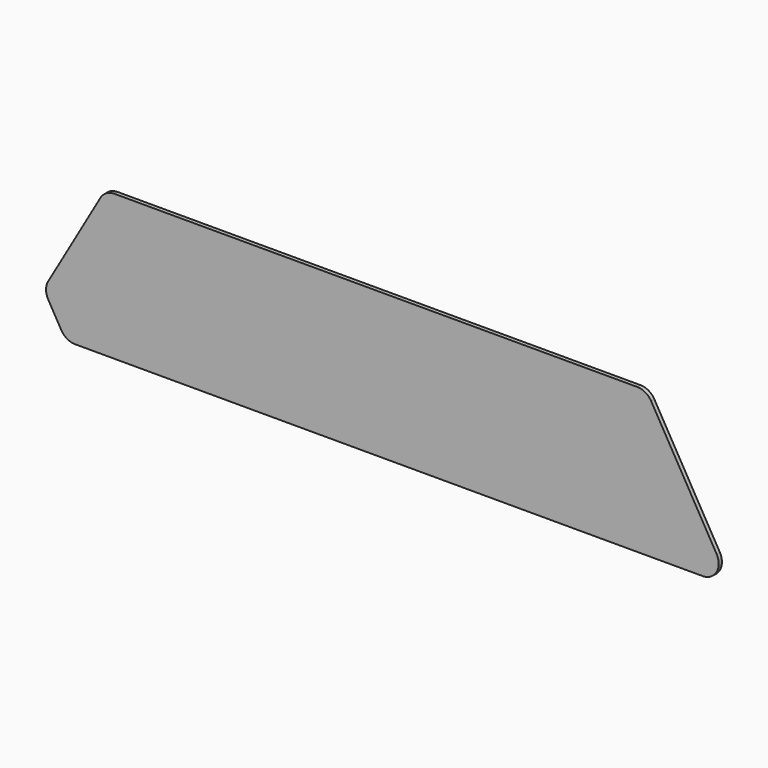
from build123d import *

# Parameters (mm, degrees)
F0_R     = 9.4
F1_DEPTH = 3
F2_DEPTH = 3


with BuildPart() as f1:
    # F0 (on Front) → F1 (new body)
    with BuildSketch(Plane.XZ):
        with BuildLine():
            Line((372.4, 12), (-19.6, 12))
            ThreePointArc((-19.6, 12), (-20.221, 11.983921), (-20.840337, 11.935726))
            ThreePointArc((-20.840337, 11.935726), (-26.129763, 10.06788), (-29.992305, 6))
            Line((-29.992305, 6), (-69.192305, -61.896392))
            ThreePointArc((-69.192305, -61.896392), (-70.8, -67.896756), (-69.19194, -73.897023))
            Line((-69.19194, -73.897023), (-59.390565, -90.871121))
            ThreePointArc((-59.390565, -90.871121), (-54.998904, -95.262633), (-49, -96.87049))
            Line((-49, -96.87049), (42.071797, -96.87049))
            Line((42.071797, -96.87049), (49, -96.87049))
            Line((49, -96.87049), (421.4, -96.87049))
            ThreePointArc((421.4, -96.87049), (431.792305, -90.87049), (431.792305, -78.87049))
            Line((431.792305, -78.87049), (382.792305, 6))
            ThreePointArc((382.792305, 6), (378.4, 10.392305), (372.4, 12))
        make_face()
        with Locations((-49, -84.87049)):
            Circle(F0_R, mode=Mode.SUBTRACT)
        with Locations((-29.4, -84.87049)):
            Circle(F0_R, mode=Mode.SUBTRACT)
        with Locations((-9.8, -84.87049)):
            Circle(F0_R, mode=Mode.SUBTRACT)
        with Locations((9.8, -84.87049)):
            Circle(F0_R, mode=Mode.SUBTRACT)
        with Locations((29.4, -84.87049)):
            Circle(F0_R, mode=Mode.SUBTRACT)
        with Locations((49, -84.87049)):
            Circle(F0_R, mode=Mode.SUBTRACT)
        with Locations((68.6, -84.87049)):
            Circle(F0_R, mode=Mode.SUBTRACT)
        with Locations((88.2, -84.87049)):
            Circle(F0_R, mode=Mode.SUBTRACT)
        with Locations((107.8, -84.87049)):
            Circle(F0_R, mode=Mode.SUBTRACT)
        with Locations((127.4, -84.87049)):
            Circle(F0_R, mode=Mode.SUBTRACT)
        with Locations((147, -84.87049)):
            Circle(F0_R, mode=Mode.SUBTRACT)
        with Locations((166.6, -84.87049)):
            Circle(F0_R, mode=Mode.SUBTRACT)
        with Locations((-58.8, -67.896392)):
            Circle(F0_R, mode=Mode.SUBTRACT)
        with Locations((-39.2, -67.896392)):
            Circle(F0_R, mode=Mode.SUBTRACT)
        with Locations((-19.6, -67.896392)):
            Circle(F0_R, mode=Mode.SUBTRACT)
        with Locations((0, -67.896392)):
            Circle(F0_R, mode=Mode.SUBTRACT)
        with Locations((19.6, -67.896392)):
            Circle(F0_R, mode=Mode.SUBTRACT)
        with Locations((39.2, -67.896392)):
            Circle(F0_R, mode=Mode.SUBTRACT)
        with Locations((-49, -50.922294)):
            Circle(F0_R, mode=Mode.SUBTRACT)
        with Locations((-29.4, -50.922294)):
            Circle(F0_R, mode=Mode.SUBTRACT)
        with Locations((-9.8, -50.922294)):
            Circle(F0_R, mode=Mode.SUBTRACT)
        with Locations((9.8, -50.922294)):
            Circle(F0_R, mode=Mode.SUBTRACT)
        with Locations((29.4, -50.922294)):
            Circle(F0_R, mode=Mode.SUBTRACT)
        with Locations((49, -50.922294)):
            Circle(F0_R, mode=Mode.SUBTRACT)
        with Locations((58.8, -67.896392)):
            Circle(F0_R, mode=Mode.SUBTRACT)
        with Locations((78.4, -67.896392)):
            Circle(F0_R, mode=Mode.SUBTRACT)
        with Locations((98, -67.896392)):
            Circle(F0_R, mode=Mode.SUBTRACT)
        with Locations((117.6, -67.896392)):
            Circle(F0_R, mode=Mode.SUBTRACT)
        with Locations((137.2, -67.896392)):
            Circle(F0_R, mode=Mode.SUBTRACT)
        with Locations((156.8, -67.896392)):
            Circle(F0_R, mode=Mode.SUBTRACT)
        with Locations((176.4, -67.896392)):
            Circle(F0_R, mode=Mode.SUBTRACT)
        with Locations((68.6, -50.922294)):
            Circle(F0_R, mode=Mode.SUBTRACT)
        with Locations((88.2, -50.922294)):
            Circle(F0_R, mode=Mode.SUBTRACT)
        with Locations((107.8, -50.922294)):
            Circle(F0_R, mode=Mode.SUBTRACT)
        with Locations((127.4, -50.922294)):
            Circle(F0_R, mode=Mode.SUBTRACT)
        with Locations((147, -50.922294)):
            Circle(F0_R, mode=Mode.SUBTRACT)
        with Locations((166.6, -50.922294)):
            Circle(F0_R, mode=Mode.SUBTRACT)
        with Locations((186.2, -84.87049)):
            Circle(F0_R, mode=Mode.SUBTRACT)
        with Locations((205.8, -84.87049)):
            Circle(F0_R, mode=Mode.SUBTRACT)
        with Locations((225.4, -84.87049)):
            Circle(F0_R, mode=Mode.SUBTRACT)
        with Locations((245, -84.87049)):
            Circle(F0_R, mode=Mode.SUBTRACT)
        with Locations((264.6, -84.87049)):
            Circle(F0_R, mode=Mode.SUBTRACT)
        with Locations((284.2, -84.87049)):
            Circle(F0_R, mode=Mode.SUBTRACT)
        with Locations((303.8, -84.87049)):
            Circle(F0_R, mode=Mode.SUBTRACT)
        with Locations((323.4, -84.87049)):
            Circle(F0_R, mode=Mode.SUBTRACT)
        with Locations((343, -84.87049)):
            Circle(F0_R, mode=Mode.SUBTRACT)
        with Locations((362.6, -84.87049)):
            Circle(F0_R, mode=Mode.SUBTRACT)
        with Locations((382.2, -84.87049)):
            Circle(F0_R, mode=Mode.SUBTRACT)
        with Locations((401.8, -84.87049)):
            Circle(F0_R, mode=Mode.SUBTRACT)
        with Locations((421.4, -84.87049)):
            Circle(F0_R, mode=Mode.SUBTRACT)
        with Locations((196, -67.896392)):
            Circle(F0_R, mode=Mode.SUBTRACT)
        with Locations((215.6, -67.896392)):
            Circle(F0_R, mode=Mode.SUBTRACT)
        with Locations((235.2, -67.896392)):
            Circle(F0_R, mode=Mode.SUBTRACT)
        with Locations((254.8, -67.896392)):
            Circle(F0_R, mode=Mode.SUBTRACT)
        with Locations((274.4, -67.896392)):
            Circle(F0_R, mode=Mode.SUBTRACT)
        with Locations((294, -67.896392)):
            Circle(F0_R, mode=Mode.SUBTRACT)
        with Locations((186.2, -50.922294)):
            Circle(F0_R, mode=Mode.SUBTRACT)
        with Locations((205.8, -50.922294)):
            Circle(F0_R, mode=Mode.SUBTRACT)
        with Locations((225.4, -50.922294)):
            Circle(F0_R, mode=Mode.SUBTRACT)
        with Locations((245, -50.922294)):
            Circle(F0_R, mode=Mode.SUBTRACT)
        with Locations((264.6, -50.922294)):
            Circle(F0_R, mode=Mode.SUBTRACT)
        with Locations((284.2, -50.922294)):
            Circle(F0_R, mode=Mode.SUBTRACT)
        with Locations((303.8, -50.922294)):
            Circle(F0_R, mode=Mode.SUBTRACT)
        with Locations((313.6, -67.896392)):
            Circle(F0_R, mode=Mode.SUBTRACT)
        with Locations((333.2, -67.896392)):
            Circle(F0_R, mode=Mode.SUBTRACT)
        with Locations((352.8, -67.896392)):
            Circle(F0_R, mode=Mode.SUBTRACT)
        with Locations((372.4, -67.896392)):
            Circle(F0_R, mode=Mode.SUBTRACT)
        with Locations((392, -67.896392)):
            Circle(F0_R, mode=Mode.SUBTRACT)
        with Locations((411.6, -67.896392)):
            Circle(F0_R, mode=Mode.SUBTRACT)
        with Locations((323.4, -50.922294)):
            Circle(F0_R, mode=Mode.SUBTRACT)
        with Locations((343, -50.922294)):
            Circle(F0_R, mode=Mode.SUBTRACT)
        with Locations((362.6, -50.922294)):
            Circle(F0_R, mode=Mode.SUBTRACT)
        with Locations((382.2, -50.922294)):
            Circle(F0_R, mode=Mode.SUBTRACT)
        with Locations((401.8, -50.922294)):
            Circle(F0_R, mode=Mode.SUBTRACT)
        with Locations((-39.2, -33.948196)):
            Circle(F0_R, mode=Mode.SUBTRACT)
        with Locations((-19.6, -33.948196)):
            Circle(F0_R, mode=Mode.SUBTRACT)
        with Locations((0, -33.948196)):
            Circle(F0_R, mode=Mode.SUBTRACT)
        with Locations((19.6, -33.948196)):
            Circle(F0_R, mode=Mode.SUBTRACT)
        with Locations((39.2, -33.948196)):
            Circle(F0_R, mode=Mode.SUBTRACT)
        with Locations((-29.4, -16.974098)):
            Circle(F0_R, mode=Mode.SUBTRACT)
        with Locations((-9.8, -16.974098)):
            Circle(F0_R, mode=Mode.SUBTRACT)
        with Locations((9.8, -16.974098)):
            Circle(F0_R, mode=Mode.SUBTRACT)
        with Locations((29.4, -16.974098)):
            Circle(F0_R, mode=Mode.SUBTRACT)
        with Locations((49, -16.974098)):
            Circle(F0_R, mode=Mode.SUBTRACT)
        with Locations((58.8, -33.948196)):
            Circle(F0_R, mode=Mode.SUBTRACT)
        with Locations((78.4, -33.948196)):
            Circle(F0_R, mode=Mode.SUBTRACT)
        with Locations((98, -33.948196)):
            Circle(F0_R, mode=Mode.SUBTRACT)
        with Locations((117.6, -33.948196)):
            Circle(F0_R, mode=Mode.SUBTRACT)
        with Locations((137.2, -33.948196)):
            Circle(F0_R, mode=Mode.SUBTRACT)
        with Locations((156.8, -33.948196)):
            Circle(F0_R, mode=Mode.SUBTRACT)
        with Locations((176.4, -33.948196)):
            Circle(F0_R, mode=Mode.SUBTRACT)
        with Locations((68.6, -16.974098)):
            Circle(F0_R, mode=Mode.SUBTRACT)
        with Locations((88.2, -16.974098)):
            Circle(F0_R, mode=Mode.SUBTRACT)
        with Locations((107.8, -16.974098)):
            Circle(F0_R, mode=Mode.SUBTRACT)
        with Locations((127.4, -16.974098)):
            Circle(F0_R, mode=Mode.SUBTRACT)
        with Locations((147, -16.974098)):
            Circle(F0_R, mode=Mode.SUBTRACT)
        with Locations((166.6, -16.974098)):
            Circle(F0_R, mode=Mode.SUBTRACT)
        with Locations((-19.6, 0)):
            Circle(F0_R, mode=Mode.SUBTRACT)
        Circle(F0_R, mode=Mode.SUBTRACT)
        with Locations((19.6, 0)):
            Circle(F0_R, mode=Mode.SUBTRACT)
        with Locations((39.2, 0)):
            Circle(F0_R, mode=Mode.SUBTRACT)
        with Locations((58.8, 0)):
            Circle(F0_R, mode=Mode.SUBTRACT)
        with Locations((78.4, 0)):
            Circle(F0_R, mode=Mode.SUBTRACT)
        with Locations((98, 0)):
            Circle(F0_R, mode=Mode.SUBTRACT)
        with Locations((117.6, 0)):
            Circle(F0_R, mode=Mode.SUBTRACT)
        with Locations((137.2, 0)):
            Circle(F0_R, mode=Mode.SUBTRACT)
        with Locations((156.8, 0)):
            Circle(F0_R, mode=Mode.SUBTRACT)
        with Locations((176.4, 0)):
            Circle(F0_R, mode=Mode.SUBTRACT)
        with Locations((196, -33.948196)):
            Circle(F0_R, mode=Mode.SUBTRACT)
        with Locations((215.6, -33.948196)):
            Circle(F0_R, mode=Mode.SUBTRACT)
        with Locations((235.2, -33.948196)):
            Circle(F0_R, mode=Mode.SUBTRACT)
        with Locations((254.8, -33.948196)):
            Circle(F0_R, mode=Mode.SUBTRACT)
        with Locations((274.4, -33.948196)):
            Circle(F0_R, mode=Mode.SUBTRACT)
        with Locations((294, -33.948196)):
            Circle(F0_R, mode=Mode.SUBTRACT)
        with Locations((186.2, -16.974098)):
            Circle(F0_R, mode=Mode.SUBTRACT)
        with Locations((205.8, -16.974098)):
            Circle(F0_R, mode=Mode.SUBTRACT)
        with Locations((225.4, -16.974098)):
            Circle(F0_R, mode=Mode.SUBTRACT)
        with Locations((245, -16.974098)):
            Circle(F0_R, mode=Mode.SUBTRACT)
        with Locations((264.6, -16.974098)):
            Circle(F0_R, mode=Mode.SUBTRACT)
        with Locations((284.2, -16.974098)):
            Circle(F0_R, mode=Mode.SUBTRACT)
        with Locations((303.8, -16.974098)):
            Circle(F0_R, mode=Mode.SUBTRACT)
        with Locations((313.6, -33.948196)):
            Circle(F0_R, mode=Mode.SUBTRACT)
        with Locations((333.2, -33.948196)):
            Circle(F0_R, mode=Mode.SUBTRACT)
        with Locations((352.8, -33.948196)):
            Circle(F0_R, mode=Mode.SUBTRACT)
        with Locations((372.4, -33.948196)):
            Circle(F0_R, mode=Mode.SUBTRACT)
        with Locations((392, -33.948196)):
            Circle(F0_R, mode=Mode.SUBTRACT)
        with Locations((323.4, -16.974098)):
            Circle(F0_R, mode=Mode.SUBTRACT)
        with Locations((343, -16.974098)):
            Circle(F0_R, mode=Mode.SUBTRACT)
        with Locations((362.6, -16.974098)):
            Circle(F0_R, mode=Mode.SUBTRACT)
        with Locations((382.2, -16.974098)):
            Circle(F0_R, mode=Mode.SUBTRACT)
        with Locations((196, 0)):
            Circle(F0_R, mode=Mode.SUBTRACT)
        with Locations((215.6, 0)):
            Circle(F0_R, mode=Mode.SUBTRACT)
        with Locations((235.2, 0)):
            Circle(F0_R, mode=Mode.SUBTRACT)
        with Locations((254.8, 0)):
            Circle(F0_R, mode=Mode.SUBTRACT)
        with Locations((274.4, 0)):
            Circle(F0_R, mode=Mode.SUBTRACT)
        with Locations((294, 0)):
            Circle(F0_R, mode=Mode.SUBTRACT)
        with Locations((313.6, 0)):
            Circle(F0_R, mode=Mode.SUBTRACT)
        with Locations((333.2, 0)):
            Circle(F0_R, mode=Mode.SUBTRACT)
        with Locations((352.8, 0)):
            Circle(F0_R, mode=Mode.SUBTRACT)
        with Locations((372.4, 0)):
            Circle(F0_R, mode=Mode.SUBTRACT)
    extrude(amount=F1_DEPTH)


with BuildPart() as f2:
    # F0 (on Front) → F2 (new body)
    with BuildSketch(Plane.XZ):
        with BuildLine():
            Line((372.4, 12), (-19.6, 12))
            ThreePointArc((-19.6, 12), (-20.221, 11.983921), (-20.840337, 11.935726))
            ThreePointArc((-20.840337, 11.935726), (-26.129763, 10.06788), (-29.992305, 6))
            Line((-29.992305, 6), (-69.192305, -61.896392))
            ThreePointArc((-69.192305, -61.896392), (-70.8, -67.896756), (-69.19194, -73.897023))
            Line((-69.19194, -73.897023), (-59.390565, -90.871121))
            ThreePointArc((-59.390565, -90.871121), (-54.998904, -95.262633), (-49, -96.87049))
            Line((-49, -96.87049), (42.071797, -96.87049))
            Line((42.071797, -96.87049), (49, -96.87049))
            Line((49, -96.87049), (421.4, -96.87049))
            ThreePointArc((421.4, -96.87049), (431.792305, -90.87049), (431.792305, -78.87049))
            Line((431.792305, -78.87049), (382.792305, 6))
            ThreePointArc((382.792305, 6), (378.4, 10.392305), (372.4, 12))
        make_face()
        with Locations((-49, -84.87049)):
            Circle(F0_R, mode=Mode.SUBTRACT)
        with Locations((-29.4, -84.87049)):
            Circle(F0_R, mode=Mode.SUBTRACT)
        with Locations((-9.8, -84.87049)):
            Circle(F0_R, mode=Mode.SUBTRACT)
        with Locations((9.8, -84.87049)):
            Circle(F0_R, mode=Mode.SUBTRACT)
        with Locations((29.4, -84.87049)):
            Circle(F0_R, mode=Mode.SUBTRACT)
        with Locations((49, -84.87049)):
            Circle(F0_R, mode=Mode.SUBTRACT)
        with Locations((68.6, -84.87049)):
            Circle(F0_R, mode=Mode.SUBTRACT)
        with Locations((88.2, -84.87049)):
            Circle(F0_R, mode=Mode.SUBTRACT)
        with Locations((107.8, -84.87049)):
            Circle(F0_R, mode=Mode.SUBTRACT)
        with Locations((127.4, -84.87049)):
            Circle(F0_R, mode=Mode.SUBTRACT)
        with Locations((147, -84.87049)):
            Circle(F0_R, mode=Mode.SUBTRACT)
        with Locations((166.6, -84.87049)):
            Circle(F0_R, mode=Mode.SUBTRACT)
        with Locations((-58.8, -67.896392)):
            Circle(F0_R, mode=Mode.SUBTRACT)
        with Locations((-39.2, -67.896392)):
            Circle(F0_R, mode=Mode.SUBTRACT)
        with Locations((-19.6, -67.896392)):
            Circle(F0_R, mode=Mode.SUBTRACT)
        with Locations((0, -67.896392)):
            Circle(F0_R, mode=Mode.SUBTRACT)
        with Locations((19.6, -67.896392)):
            Circle(F0_R, mode=Mode.SUBTRACT)
        with Locations((39.2, -67.896392)):
            Circle(F0_R, mode=Mode.SUBTRACT)
        with Locations((-49, -50.922294)):
            Circle(F0_R, mode=Mode.SUBTRACT)
        with Locations((-29.4, -50.922294)):
            Circle(F0_R, mode=Mode.SUBTRACT)
        with Locations((-9.8, -50.922294)):
            Circle(F0_R, mode=Mode.SUBTRACT)
        with Locations((9.8, -50.922294)):
            Circle(F0_R, mode=Mode.SUBTRACT)
        with Locations((29.4, -50.922294)):
            Circle(F0_R, mode=Mode.SUBTRACT)
        with Locations((49, -50.922294)):
            Circle(F0_R, mode=Mode.SUBTRACT)
        with Locations((58.8, -67.896392)):
            Circle(F0_R, mode=Mode.SUBTRACT)
        with Locations((78.4, -67.896392)):
            Circle(F0_R, mode=Mode.SUBTRACT)
        with Locations((98, -67.896392)):
            Circle(F0_R, mode=Mode.SUBTRACT)
        with Locations((117.6, -67.896392)):
            Circle(F0_R, mode=Mode.SUBTRACT)
        with Locations((137.2, -67.896392)):
            Circle(F0_R, mode=Mode.SUBTRACT)
        with Locations((156.8, -67.896392)):
            Circle(F0_R, mode=Mode.SUBTRACT)
        with Locations((176.4, -67.896392)):
            Circle(F0_R, mode=Mode.SUBTRACT)
        with Locations((68.6, -50.922294)):
            Circle(F0_R, mode=Mode.SUBTRACT)
        with Locations((88.2, -50.922294)):
            Circle(F0_R, mode=Mode.SUBTRACT)
        with Locations((107.8, -50.922294)):
            Circle(F0_R, mode=Mode.SUBTRACT)
        with Locations((127.4, -50.922294)):
            Circle(F0_R, mode=Mode.SUBTRACT)
        with Locations((147, -50.922294)):
            Circle(F0_R, mode=Mode.SUBTRACT)
        with Locations((166.6, -50.922294)):
            Circle(F0_R, mode=Mode.SUBTRACT)
        with Locations((186.2, -84.87049)):
            Circle(F0_R, mode=Mode.SUBTRACT)
        with Locations((205.8, -84.87049)):
            Circle(F0_R, mode=Mode.SUBTRACT)
        with Locations((225.4, -84.87049)):
            Circle(F0_R, mode=Mode.SUBTRACT)
        with Locations((245, -84.87049)):
            Circle(F0_R, mode=Mode.SUBTRACT)
        with Locations((264.6, -84.87049)):
            Circle(F0_R, mode=Mode.SUBTRACT)
        with Locations((284.2, -84.87049)):
            Circle(F0_R, mode=Mode.SUBTRACT)
        with Locations((303.8, -84.87049)):
            Circle(F0_R, mode=Mode.SUBTRACT)
        with Locations((323.4, -84.87049)):
            Circle(F0_R, mode=Mode.SUBTRACT)
        with Locations((343, -84.87049)):
            Circle(F0_R, mode=Mode.SUBTRACT)
        with Locations((362.6, -84.87049)):
            Circle(F0_R, mode=Mode.SUBTRACT)
        with Locations((382.2, -84.87049)):
            Circle(F0_R, mode=Mode.SUBTRACT)
        with Locations((401.8, -84.87049)):
            Circle(F0_R, mode=Mode.SUBTRACT)
        with Locations((421.4, -84.87049)):
            Circle(F0_R, mode=Mode.SUBTRACT)
        with Locations((196, -67.896392)):
            Circle(F0_R, mode=Mode.SUBTRACT)
        with Locations((215.6, -67.896392)):
            Circle(F0_R, mode=Mode.SUBTRACT)
        with Locations((235.2, -67.896392)):
            Circle(F0_R, mode=Mode.SUBTRACT)
        with Locations((254.8, -67.896392)):
            Circle(F0_R, mode=Mode.SUBTRACT)
        with Locations((274.4, -67.896392)):
            Circle(F0_R, mode=Mode.SUBTRACT)
        with Locations((294, -67.896392)):
            Circle(F0_R, mode=Mode.SUBTRACT)
        with Locations((186.2, -50.922294)):
            Circle(F0_R, mode=Mode.SUBTRACT)
        with Locations((205.8, -50.922294)):
            Circle(F0_R, mode=Mode.SUBTRACT)
        with Locations((225.4, -50.922294)):
            Circle(F0_R, mode=Mode.SUBTRACT)
        with Locations((245, -50.922294)):
            Circle(F0_R, mode=Mode.SUBTRACT)
        with Locations((264.6, -50.922294)):
            Circle(F0_R, mode=Mode.SUBTRACT)
        with Locations((284.2, -50.922294)):
            Circle(F0_R, mode=Mode.SUBTRACT)
        with Locations((303.8, -50.922294)):
            Circle(F0_R, mode=Mode.SUBTRACT)
        with Locations((313.6, -67.896392)):
            Circle(F0_R, mode=Mode.SUBTRACT)
        with Locations((333.2, -67.896392)):
            Circle(F0_R, mode=Mode.SUBTRACT)
        with Locations((352.8, -67.896392)):
            Circle(F0_R, mode=Mode.SUBTRACT)
        with Locations((372.4, -67.896392)):
            Circle(F0_R, mode=Mode.SUBTRACT)
        with Locations((392, -67.896392)):
            Circle(F0_R, mode=Mode.SUBTRACT)
        with Locations((411.6, -67.896392)):
            Circle(F0_R, mode=Mode.SUBTRACT)
        with Locations((323.4, -50.922294)):
            Circle(F0_R, mode=Mode.SUBTRACT)
        with Locations((343, -50.922294)):
            Circle(F0_R, mode=Mode.SUBTRACT)
        with Locations((362.6, -50.922294)):
            Circle(F0_R, mode=Mode.SUBTRACT)
        with Locations((382.2, -50.922294)):
            Circle(F0_R, mode=Mode.SUBTRACT)
        with Locations((401.8, -50.922294)):
            Circle(F0_R, mode=Mode.SUBTRACT)
        with Locations((-39.2, -33.948196)):
            Circle(F0_R, mode=Mode.SUBTRACT)
        with Locations((-19.6, -33.948196)):
            Circle(F0_R, mode=Mode.SUBTRACT)
        with Locations((0, -33.948196)):
            Circle(F0_R, mode=Mode.SUBTRACT)
        with Locations((19.6, -33.948196)):
            Circle(F0_R, mode=Mode.SUBTRACT)
        with Locations((39.2, -33.948196)):
            Circle(F0_R, mode=Mode.SUBTRACT)
        with Locations((-29.4, -16.974098)):
            Circle(F0_R, mode=Mode.SUBTRACT)
        with Locations((-9.8, -16.974098)):
            Circle(F0_R, mode=Mode.SUBTRACT)
        with Locations((9.8, -16.974098)):
            Circle(F0_R, mode=Mode.SUBTRACT)
        with Locations((29.4, -16.974098)):
            Circle(F0_R, mode=Mode.SUBTRACT)
        with Locations((49, -16.974098)):
            Circle(F0_R, mode=Mode.SUBTRACT)
        with Locations((58.8, -33.948196)):
            Circle(F0_R, mode=Mode.SUBTRACT)
        with Locations((78.4, -33.948196)):
            Circle(F0_R, mode=Mode.SUBTRACT)
        with Locations((98, -33.948196)):
            Circle(F0_R, mode=Mode.SUBTRACT)
        with Locations((117.6, -33.948196)):
            Circle(F0_R, mode=Mode.SUBTRACT)
        with Locations((137.2, -33.948196)):
            Circle(F0_R, mode=Mode.SUBTRACT)
        with Locations((156.8, -33.948196)):
            Circle(F0_R, mode=Mode.SUBTRACT)
        with Locations((176.4, -33.948196)):
            Circle(F0_R, mode=Mode.SUBTRACT)
        with Locations((68.6, -16.974098)):
            Circle(F0_R, mode=Mode.SUBTRACT)
        with Locations((88.2, -16.974098)):
            Circle(F0_R, mode=Mode.SUBTRACT)
        with Locations((107.8, -16.974098)):
            Circle(F0_R, mode=Mode.SUBTRACT)
        with Locations((127.4, -16.974098)):
            Circle(F0_R, mode=Mode.SUBTRACT)
        with Locations((147, -16.974098)):
            Circle(F0_R, mode=Mode.SUBTRACT)
        with Locations((166.6, -16.974098)):
            Circle(F0_R, mode=Mode.SUBTRACT)
        with Locations((-19.6, 0)):
            Circle(F0_R, mode=Mode.SUBTRACT)
        Circle(F0_R, mode=Mode.SUBTRACT)
        with Locations((19.6, 0)):
            Circle(F0_R, mode=Mode.SUBTRACT)
        with Locations((39.2, 0)):
            Circle(F0_R, mode=Mode.SUBTRACT)
        with Locations((58.8, 0)):
            Circle(F0_R, mode=Mode.SUBTRACT)
        with Locations((78.4, 0)):
            Circle(F0_R, mode=Mode.SUBTRACT)
        with Locations((98, 0)):
            Circle(F0_R, mode=Mode.SUBTRACT)
        with Locations((117.6, 0)):
            Circle(F0_R, mode=Mode.SUBTRACT)
        with Locations((137.2, 0)):
            Circle(F0_R, mode=Mode.SUBTRACT)
        with Locations((156.8, 0)):
            Circle(F0_R, mode=Mode.SUBTRACT)
        with Locations((176.4, 0)):
            Circle(F0_R, mode=Mode.SUBTRACT)
        with Locations((196, -33.948196)):
            Circle(F0_R, mode=Mode.SUBTRACT)
        with Locations((215.6, -33.948196)):
            Circle(F0_R, mode=Mode.SUBTRACT)
        with Locations((235.2, -33.948196)):
            Circle(F0_R, mode=Mode.SUBTRACT)
        with Locations((254.8, -33.948196)):
            Circle(F0_R, mode=Mode.SUBTRACT)
        with Locations((274.4, -33.948196)):
            Circle(F0_R, mode=Mode.SUBTRACT)
        with Locations((294, -33.948196)):
            Circle(F0_R, mode=Mode.SUBTRACT)
        with Locations((186.2, -16.974098)):
            Circle(F0_R, mode=Mode.SUBTRACT)
        with Locations((205.8, -16.974098)):
            Circle(F0_R, mode=Mode.SUBTRACT)
        with Locations((225.4, -16.974098)):
            Circle(F0_R, mode=Mode.SUBTRACT)
        with Locations((245, -16.974098)):
            Circle(F0_R, mode=Mode.SUBTRACT)
        with Locations((264.6, -16.974098)):
            Circle(F0_R, mode=Mode.SUBTRACT)
        with Locations((284.2, -16.974098)):
            Circle(F0_R, mode=Mode.SUBTRACT)
        with Locations((303.8, -16.974098)):
            Circle(F0_R, mode=Mode.SUBTRACT)
        with Locations((313.6, -33.948196)):
            Circle(F0_R, mode=Mode.SUBTRACT)
        with Locations((333.2, -33.948196)):
            Circle(F0_R, mode=Mode.SUBTRACT)
        with Locations((352.8, -33.948196)):
            Circle(F0_R, mode=Mode.SUBTRACT)
        with Locations((372.4, -33.948196)):
            Circle(F0_R, mode=Mode.SUBTRACT)
        with Locations((392, -33.948196)):
            Circle(F0_R, mode=Mode.SUBTRACT)
        with Locations((323.4, -16.974098)):
            Circle(F0_R, mode=Mode.SUBTRACT)
        with Locations((343, -16.974098)):
            Circle(F0_R, mode=Mode.SUBTRACT)
        with Locations((362.6, -16.974098)):
            Circle(F0_R, mode=Mode.SUBTRACT)
        with Locations((382.2, -16.974098)):
            Circle(F0_R, mode=Mode.SUBTRACT)
        with Locations((196, 0)):
            Circle(F0_R, mode=Mode.SUBTRACT)
        with Locations((215.6, 0)):
            Circle(F0_R, mode=Mode.SUBTRACT)
        with Locations((235.2, 0)):
            Circle(F0_R, mode=Mode.SUBTRACT)
        with Locations((254.8, 0)):
            Circle(F0_R, mode=Mode.SUBTRACT)
        with Locations((274.4, 0)):
            Circle(F0_R, mode=Mode.SUBTRACT)
        with Locations((294, 0)):
            Circle(F0_R, mode=Mode.SUBTRACT)
        with Locations((313.6, 0)):
            Circle(F0_R, mode=Mode.SUBTRACT)
        with Locations((333.2, 0)):
            Circle(F0_R, mode=Mode.SUBTRACT)
        with Locations((352.8, 0)):
            Circle(F0_R, mode=Mode.SUBTRACT)
        with Locations((372.4, 0)):
            Circle(F0_R, mode=Mode.SUBTRACT)
        with Locations((372.4, 0)):
            Circle(F0_R)
        with Locations((352.8, 0)):
            Circle(F0_R)
        with Locations((333.2, 0)):
            Circle(F0_R)
        with Locations((313.6, 0)):
            Circle(F0_R)
        with Locations((294, 0)):
            Circle(F0_R)
        with Locations((274.4, 0)):
            Circle(F0_R)
        with Locations((254.8, 0)):
            Circle(F0_R)
        with Locations((235.2, 0)):
            Circle(F0_R)
        with Locations((215.6, 0)):
            Circle(F0_R)
        with Locations((196, 0)):
            Circle(F0_R)
        with Locations((176.4, 0)):
            Circle(F0_R)
        with Locations((156.8, 0)):
            Circle(F0_R)
        with Locations((137.2, 0)):
            Circle(F0_R)
        with Locations((117.6, 0)):
            Circle(F0_R)
        with Locations((98, 0)):
            Circle(F0_R)
        with Locations((78.4, 0)):
            Circle(F0_R)
        with Locations((58.8, 0)):
            Circle(F0_R)
        with Locations((39.2, 0)):
            Circle(F0_R)
        with Locations((19.6, 0)):
            Circle(F0_R)
        Circle(F0_R)
        with Locations((-19.6, 0)):
            Circle(F0_R)
        with Locations((-29.4, -16.974098)):
            Circle(F0_R)
        with Locations((-9.8, -16.974098)):
            Circle(F0_R)
        with Locations((9.8, -16.974098)):
            Circle(F0_R)
        with Locations((29.4, -16.974098)):
            Circle(F0_R)
        with Locations((49, -16.974098)):
            Circle(F0_R)
        with Locations((68.6, -16.974098)):
            Circle(F0_R)
        with Locations((88.2, -16.974098)):
            Circle(F0_R)
        with Locations((107.8, -16.974098)):
            Circle(F0_R)
        with Locations((127.4, -16.974098)):
            Circle(F0_R)
        with Locations((147, -16.974098)):
            Circle(F0_R)
        with Locations((166.6, -16.974098)):
            Circle(F0_R)
        with Locations((186.2, -16.974098)):
            Circle(F0_R)
        with Locations((205.8, -16.974098)):
            Circle(F0_R)
        with Locations((225.4, -16.974098)):
            Circle(F0_R)
        with Locations((245, -16.974098)):
            Circle(F0_R)
        with Locations((264.6, -16.974098)):
            Circle(F0_R)
        with Locations((284.2, -16.974098)):
            Circle(F0_R)
        with Locations((303.8, -16.974098)):
            Circle(F0_R)
        with Locations((323.4, -16.974098)):
            Circle(F0_R)
        with Locations((343, -16.974098)):
            Circle(F0_R)
        with Locations((362.6, -16.974098)):
            Circle(F0_R)
        with Locations((382.2, -16.974098)):
            Circle(F0_R)
        with Locations((392, -33.948196)):
            Circle(F0_R)
        with Locations((372.4, -33.948196)):
            Circle(F0_R)
        with Locations((352.8, -33.948196)):
            Circle(F0_R)
        with Locations((333.2, -33.948196)):
            Circle(F0_R)
        with Locations((313.6, -33.948196)):
            Circle(F0_R)
        with Locations((294, -33.948196)):
            Circle(F0_R)
        with Locations((274.4, -33.948196)):
            Circle(F0_R)
        with Locations((254.8, -33.948196)):
            Circle(F0_R)
        with Locations((235.2, -33.948196)):
            Circle(F0_R)
        with Locations((215.6, -33.948196)):
            Circle(F0_R)
        with Locations((196, -33.948196)):
            Circle(F0_R)
        with Locations((176.4, -33.948196)):
            Circle(F0_R)
        with Locations((156.8, -33.948196)):
            Circle(F0_R)
        with Locations((137.2, -33.948196)):
            Circle(F0_R)
        with Locations((117.6, -33.948196)):
            Circle(F0_R)
        with Locations((98, -33.948196)):
            Circle(F0_R)
        with Locations((78.4, -33.948196)):
            Circle(F0_R)
        with Locations((58.8, -33.948196)):
            Circle(F0_R)
        with Locations((39.2, -33.948196)):
            Circle(F0_R)
        with Locations((19.6, -33.948196)):
            Circle(F0_R)
        with Locations((0, -33.948196)):
            Circle(F0_R)
        with Locations((-19.6, -33.948196)):
            Circle(F0_R)
        with Locations((-39.2, -33.948196)):
            Circle(F0_R)
        with Locations((-49, -50.922294)):
            Circle(F0_R)
        with Locations((-29.4, -50.922294)):
            Circle(F0_R)
        with Locations((-9.8, -50.922294)):
            Circle(F0_R)
        with Locations((9.8, -50.922294)):
            Circle(F0_R)
        with Locations((29.4, -50.922294)):
            Circle(F0_R)
        with Locations((49, -50.922294)):
            Circle(F0_R)
        with Locations((68.6, -50.922294)):
            Circle(F0_R)
        with Locations((88.2, -50.922294)):
            Circle(F0_R)
        with Locations((107.8, -50.922294)):
            Circle(F0_R)
        with Locations((127.4, -50.922294)):
            Circle(F0_R)
        with Locations((147, -50.922294)):
            Circle(F0_R)
        with Locations((166.6, -50.922294)):
            Circle(F0_R)
        with Locations((186.2, -50.922294)):
            Circle(F0_R)
        with Locations((205.8, -50.922294)):
            Circle(F0_R)
        with Locations((225.4, -50.922294)):
            Circle(F0_R)
        with Locations((245, -50.922294)):
            Circle(F0_R)
        with Locations((264.6, -50.922294)):
            Circle(F0_R)
        with Locations((284.2, -50.922294)):
            Circle(F0_R)
        with Locations((303.8, -50.922294)):
            Circle(F0_R)
        with Locations((323.4, -50.922294)):
            Circle(F0_R)
        with Locations((343, -50.922294)):
            Circle(F0_R)
        with Locations((362.6, -50.922294)):
            Circle(F0_R)
        with Locations((382.2, -50.922294)):
            Circle(F0_R)
        with Locations((401.8, -50.922294)):
            Circle(F0_R)
        with Locations((411.6, -67.896392)):
            Circle(F0_R)
        with Locations((392, -67.896392)):
            Circle(F0_R)
        with Locations((372.4, -67.896392)):
            Circle(F0_R)
        with Locations((352.8, -67.896392)):
            Circle(F0_R)
        with Locations((333.2, -67.896392)):
            Circle(F0_R)
        with Locations((313.6, -67.896392)):
            Circle(F0_R)
        with Locations((294, -67.896392)):
            Circle(F0_R)
        with Locations((274.4, -67.896392)):
            Circle(F0_R)
        with Locations((254.8, -67.896392)):
            Circle(F0_R)
        with Locations((235.2, -67.896392)):
            Circle(F0_R)
        with Locations((215.6, -67.896392)):
            Circle(F0_R)
        with Locations((196, -67.896392)):
            Circle(F0_R)
        with Locations((176.4, -67.896392)):
            Circle(F0_R)
        with Locations((156.8, -67.896392)):
            Circle(F0_R)
        with Locations((137.2, -67.896392)):
            Circle(F0_R)
        with Locations((117.6, -67.896392)):
            Circle(F0_R)
        with Locations((98, -67.896392)):
            Circle(F0_R)
        with Locations((78.4, -67.896392)):
            Circle(F0_R)
        with Locations((58.8, -67.896392)):
            Circle(F0_R)
        with Locations((39.2, -67.896392)):
            Circle(F0_R)
        with Locations((19.6, -67.896392)):
            Circle(F0_R)
        with Locations((0, -67.896392)):
            Circle(F0_R)
        with Locations((-19.6, -67.896392)):
            Circle(F0_R)
        with Locations((-39.2, -67.896392)):
            Circle(F0_R)
        with Locations((-58.8, -67.896392)):
            Circle(F0_R)
        with Locations((-49, -84.87049)):
            Circle(F0_R)
        with Locations((-29.4, -84.87049)):
            Circle(F0_R)
        with Locations((-9.8, -84.87049)):
            Circle(F0_R)
        with Locations((9.8, -84.87049)):
            Circle(F0_R)
        with Locations((29.4, -84.87049)):
            Circle(F0_R)
        with Locations((49, -84.87049)):
            Circle(F0_R)
        with Locations((68.6, -84.87049)):
            Circle(F0_R)
        with Locations((88.2, -84.87049)):
            Circle(F0_R)
        with Locations((107.8, -84.87049)):
            Circle(F0_R)
        with Locations((127.4, -84.87049)):
            Circle(F0_R)
        with Locations((147, -84.87049)):
            Circle(F0_R)
        with Locations((166.6, -84.87049)):
            Circle(F0_R)
        with Locations((186.2, -84.87049)):
            Circle(F0_R)
        with Locations((205.8, -84.87049)):
            Circle(F0_R)
        with Locations((225.4, -84.87049)):
            Circle(F0_R)
        with Locations((245, -84.87049)):
            Circle(F0_R)
        with Locations((264.6, -84.87049)):
            Circle(F0_R)
        with Locations((284.2, -84.87049)):
            Circle(F0_R)
        with Locations((303.8, -84.87049)):
            Circle(F0_R)
        with Locations((323.4, -84.87049)):
            Circle(F0_R)
        with Locations((343, -84.87049)):
            Circle(F0_R)
        with Locations((362.6, -84.87049)):
            Circle(F0_R)
        with Locations((382.2, -84.87049)):
            Circle(F0_R)
        with Locations((401.8, -84.87049)):
            Circle(F0_R)
        with Locations((421.4, -84.87049)):
            Circle(F0_R)
    extrude(amount=F2_DEPTH)


solid = Compound([f1.part, f2.part])
